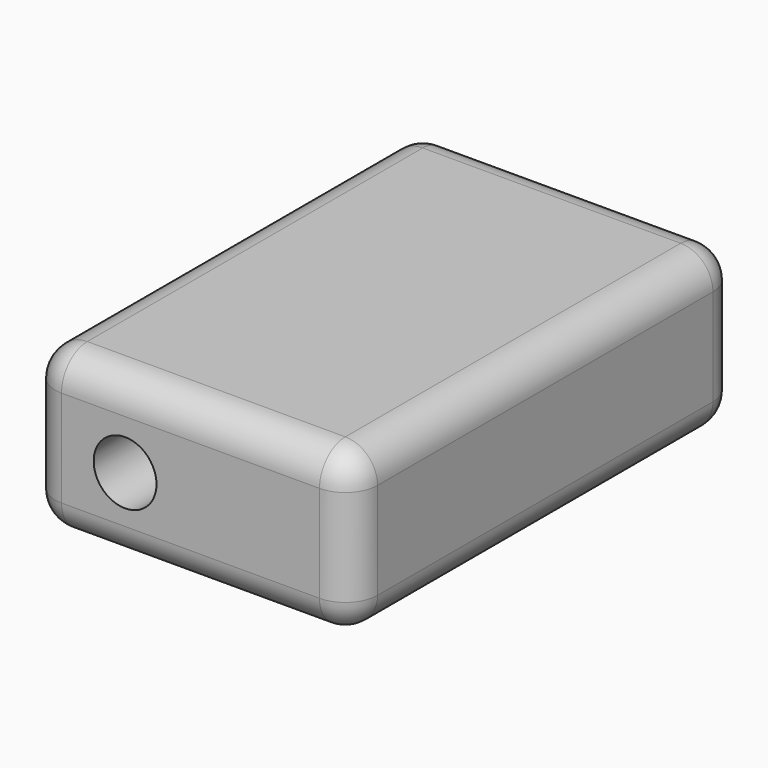
from build123d import *

# Parameters (mm, degrees)
F0_W     = 50.8
F0_H     = 76.2
F1_DEPTH = 25.4
F2_R     = 5.08
F3_R     = 4.94494
F4_DEPTH = 25.4
F5_R     = 5.08
F6_R     = 6.503178
F6_R_2   = 6.191373
F7_DEPTH = 5.08


with BuildPart() as f1:
    # F0 (on Top) → F1 (new body)
    with BuildSketch(Plane.XY):
        with Locations((25.4, -38.1)):
            Rectangle(F0_W, F0_H)
    extrude(amount=F1_DEPTH)

    # F2
    f2_edges = [f1.edges().sort_by_distance(p)[0] for p in [
        (0, -76.2, 12.7),
        (50.8, -76.2, 12.7),
        (50.8, 0, 12.7),
        (0, 0, 12.7),
    ]]
    fillet(f2_edges, radius=F2_R)

    # F3 (on face) → F4 (cut)
    with BuildSketch(Plane.XZ.offset(76.2)):
        with Locations((15.094488, 12.532027)):
            Circle(F3_R)
    extrude(amount=-F4_DEPTH, mode=Mode.SUBTRACT)

    # F5
    f5_edges = [f1.edges().sort_by_distance(p)[0] for p in [
        (25.4, -76.2, 25.4),
        (25.4, -76.2, 0),
    ]]
    fillet(f5_edges, radius=F5_R)

    # F6 (on face) → F7 (cut)
    with BuildSketch(Plane.XY):
        with Locations((26.003035, -15.508536)):
            Circle(F6_R)
        with Locations((26.003035, -15.508536)):
            Circle(F6_R_2, mode=Mode.SUBTRACT)
    extrude(amount=F7_DEPTH, mode=Mode.SUBTRACT)


solid = f1.part
